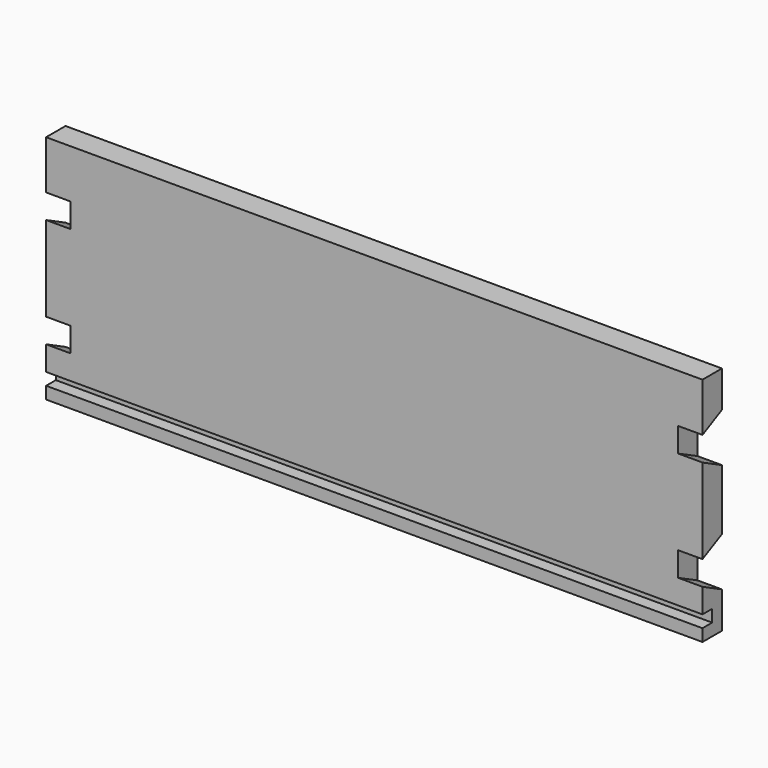
from build123d import *

# Parameters (mm, degrees)
F0_W     = 135
F0_H     = 95
F1_DEPTH = 10
F3_DEPTH = 10
F4_W     = 135
F4_H     = 5
F5_DEPTH = 5


with BuildPart() as f1:
    # F0 (on Front) → F1 (new body)
    with BuildSketch(Plane.XZ):
        with Locations((-0.448078, 7.457405)):
            Rectangle(F0_W, F0_H)
    extrude(amount=F1_DEPTH)

    # F2 (on face) → F3 (cut)
    with BuildSketch(Plane(origin=(-67.948078, 0, 0), x_dir=(0, -1, 0), z_dir=(-1, 0, 0))):
        Polygon((10, 34.957405), (0, 39.957405), (0, 19.957405), (10, 24.957405), align=None)
        Polygon((10, -10.042595), (0, -5.042595), (0, -25.042595), (10, -20.042595), align=None)
    extrude(amount=-F3_DEPTH, mode=Mode.SUBTRACT)

    # F4 (on face) → F5 (cut)
    with BuildSketch(Plane.XZ.offset(10)):
        with Locations((-0.448078, -32.542595)):
            Rectangle(F4_W, F4_H)
    extrude(amount=-F5_DEPTH, mode=Mode.SUBTRACT)

    # F6: F1 across face


with BuildPart() as f1_1:
    add(f1.part)
    add(f1.part.mirror(Plane(origin=(67.051922, -4.932432, 8.538486), x_dir=(0, 1, 0), z_dir=(1, 0, 0))))


solid = f1_1.part
